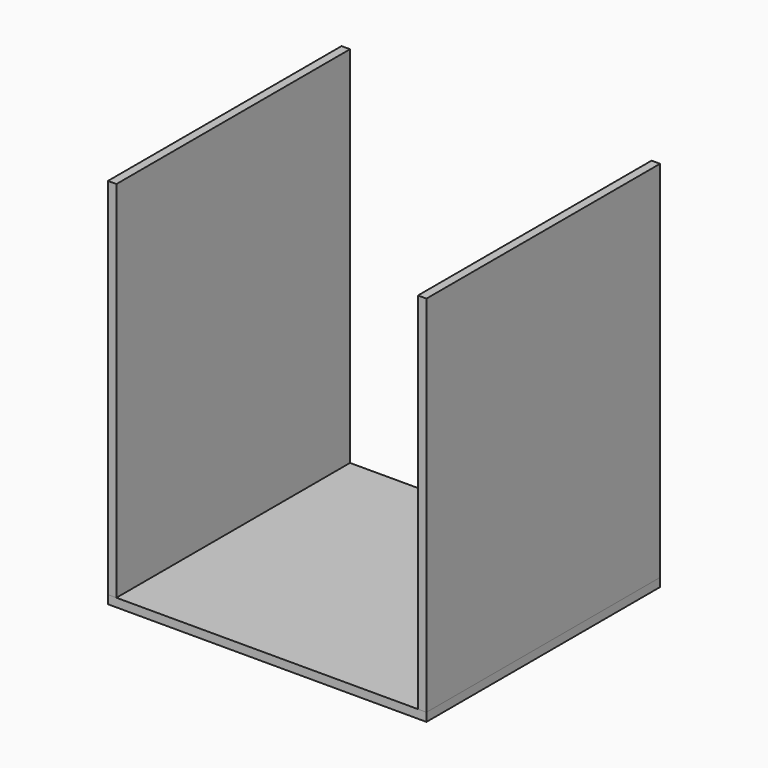
from build123d import *

# Parameters (mm, degrees)
F0_W     = 600
F0_H     = 550
F1_DEPTH = 16
F2_W     = 16
F2_H     = 550
F3_DEPTH = 686
F4_W     = 16
F4_H     = 550
F5_DEPTH = 686


with BuildPart() as f1:
    # F0 (on Top) → F1 (new body)
    with BuildSketch(Plane.XY):
        with Locations((300, 275)):
            Rectangle(F0_W, F0_H)
    extrude(amount=F1_DEPTH)


with BuildPart() as f3:
    # F2 (on face) → F3 (new body)
    with BuildSketch(Plane.XY.offset(16)):
        with Locations((8, 275)):
            Rectangle(F2_W, F2_H)
    extrude(amount=F3_DEPTH)


with BuildPart() as f5:
    # F4 (on face) → F5 (new body)
    with BuildSketch(Plane.XY.offset(16)):
        with Locations((592, 275)):
            Rectangle(F4_W, F4_H)
    extrude(amount=F5_DEPTH)


solid = Compound([f1.part, f3.part, f5.part])
